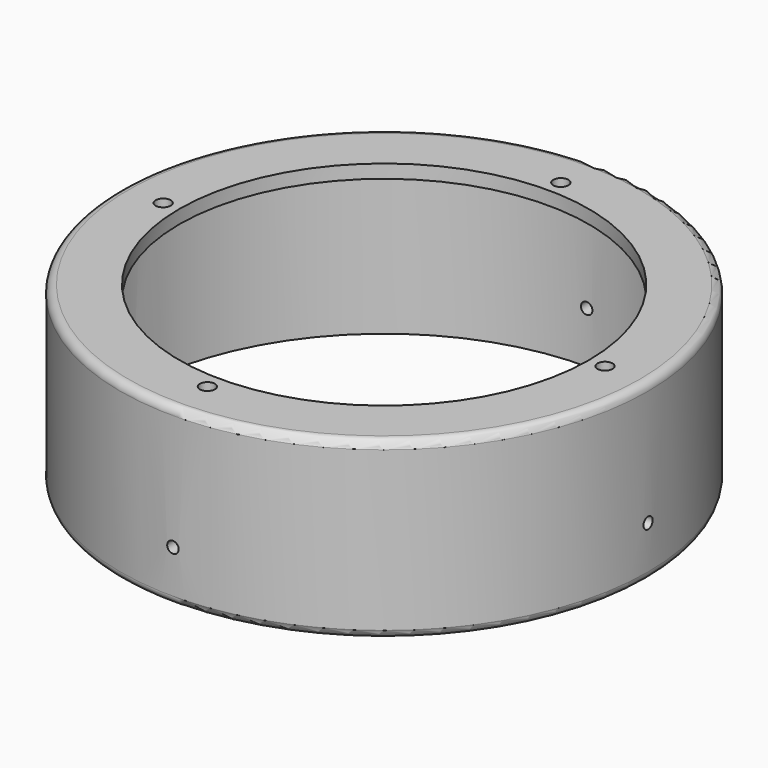
from build123d import *

# Parameters (mm, degrees)
SKETCH044_R       = 2.8
EXTRUDE026_DEPTH  = 20
CYLINDER131_R     = 2.13
CYLINDER131_DEPTH = 300
CYLINDER132_R     = 2.13
CYLINDER132_DEPTH = 300
TUBE004_R         = 98
TUBE004_R_2       = 94
TUBE004_DEPTH     = 65
SKETCH042_R       = 98
SKETCH042_R_2     = 76
EXTRUDE024_DEPTH  = 5
FILLET002_R       = 3


with BuildPart() as m4heatsetvercuts001:
    # Sketch044 → Extrude026 (new body)
    with BuildSketch(Plane.XY):
        with Locations((0, -68)):
            Circle(SKETCH044_R)
        with Locations((82, -150)):
            Circle(SKETCH044_R)
        with Locations((0, -232)):
            Circle(SKETCH044_R)
        with Locations((-82, -150)):
            Circle(SKETCH044_R)
    extrude(amount=EXTRUDE026_DEPTH)


with BuildPart() as m4heatsetvercuts001_1:
    # Extrude026 placement: moved
    add(m4heatsetvercuts001.part.moved(Location((0, 0, -193))))


with BuildPart() as cylinder131:
    # Cylinder131 → Cylinder131 (new body)
    with BuildSketch(Plane(origin=(0, 0, 90), x_dir=(1, 0, 0), z_dir=(0, -1, 0))):
        Circle(CYLINDER131_R)
    extrude(amount=CYLINDER131_DEPTH)


with BuildPart() as m4cuts009:
    # Cylinder132 → Cylinder132 (new body)
    with BuildSketch(Plane(origin=(-150, -150, 90), x_dir=(0, 1, 0), z_dir=(1, 0, 0))):
        Circle(CYLINDER132_R)
    extrude(amount=CYLINDER132_DEPTH)

    # Fusion084: union Cylinder131
    add(cylinder131.part)


with BuildPart() as m4cuts009_1:
    # Fusion084 placement: moved
    add(m4cuts009.part.moved(Location((0, 0, -321))))


with BuildPart() as tube004:
    # Tube004 → Tube004 (new body)
    with BuildSketch(Plane(origin=(0, -150, -125), x_dir=(1, 0, 0), z_dir=(0, 0, 1))):
        Circle(TUBE004_R)
        Circle(TUBE004_R_2, mode=Mode.SUBTRACT)
    extrude(amount=TUBE004_DEPTH)


with BuildPart() as level5s001:
    # Sketch042 → Extrude024 (new body)
    with BuildSketch(Plane.XY):
        with Locations((0, -150)):
            Circle(SKETCH042_R)
        with Locations((0, -150)):
            Circle(SKETCH042_R_2, mode=Mode.SUBTRACT)
    extrude(amount=EXTRUDE024_DEPTH)


with BuildPart() as level5s001_1:
    # Extrude024 placement: moved
    add(level5s001.part.moved(Location((0, 0, -65))))

    # Fusion082: union Tube004
    add(tube004.part)


with BuildPart() as level5s001_2:
    # Fusion082 placement: moved
    add(level5s001_1.part.moved(Location((0, 0, -125))))

    # Cut036: cut m4Cuts009
    add(m4cuts009_1.part, mode=Mode.SUBTRACT)

    # Cut038: cut m4HeatSetVerCuts001
    add(m4heatsetvercuts001_1.part, mode=Mode.SUBTRACT)

    # Fillet002
    fillet002_edges = [level5s001_2.edges().sort_by_distance(p)[0] for p in [
        (-98, -150, -185),
        (-98, -150, -250),
        (-94, -150, -190),
    ]]
    fillet(fillet002_edges, radius=FILLET002_R)


solid = level5s001_2.part
